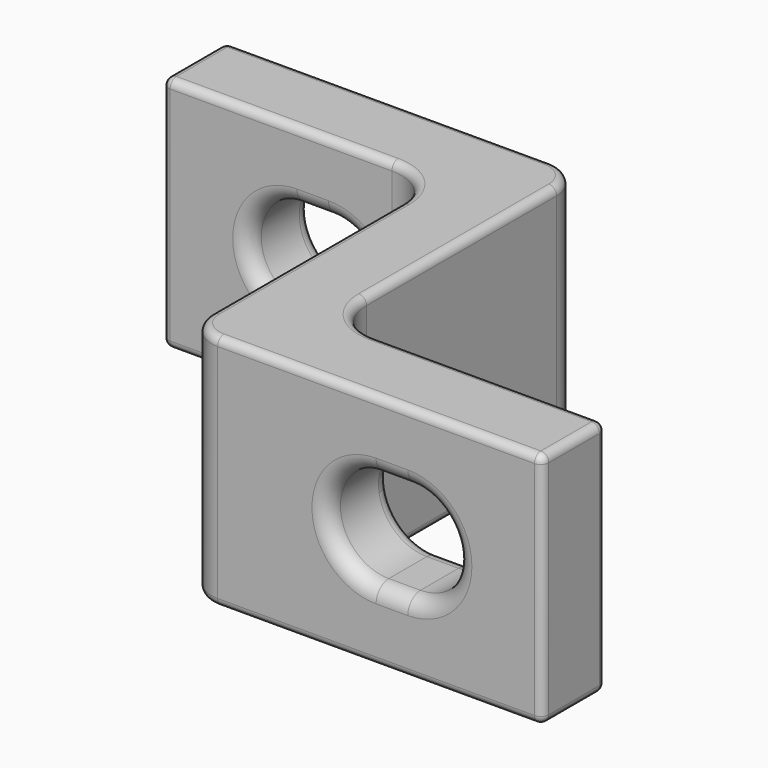
from build123d import *

# Parameters (mm, degrees)
F1_DEPTH      = 15
F2_W          = 2
F2_H          = 6.1
F3_DEPTH      = 20.001
F3_DEPTH_BACK = 5.001
F4_R          = 3
F5_R          = 3
F6_R          = 2
F7_R          = 2
F8_R          = 1
F9_R          = 1
F10_R         = 1
F11_R         = 1
F12_R         = 0.5
F13_R         = 0.5
F14_R         = 0.5
F15_R         = 0.5


with BuildPart() as f1:
    # F0 (on Top) → F1 (new body)
    with BuildSketch(Plane.XY):
        Polygon((22.5, 0), (0, 0), (0, -5), (17.5, -5), (17.5, -25), (40, -25), (40, -20), (22.5, -20), align=None)
    extrude(amount=F1_DEPTH)

    # F2 (on face) → F3 (cut, two sides)
    with BuildSketch(Plane(origin=(0, -20, 0), x_dir=(-1, 0, 0), z_dir=(0, 1, 0))) as f3_sk:
        with Locations((-30.5, 7.5)):
            Rectangle(F2_W, F2_H)
        with BuildLine():
            ThreePointArc((-29.5, 4.45), (-26.45, 7.5), (-29.5, 10.55))
            Line((-29.5, 10.55), (-29.5, 4.45))
        make_face()
        with BuildLine():
            Line((-31.5, 4.45), (-31.5, 10.55))
            ThreePointArc((-31.5, 10.55), (-34.55, 7.5), (-31.5, 4.45))
        make_face()
        with BuildLine():
            ThreePointArc((-10.5, 10.55), (-13.55, 7.5), (-10.5, 4.45))
            Line((-10.5, 4.45), (-10.5, 10.55))
        make_face()
        with Locations((-9.5, 7.5)):
            Rectangle(F2_W, F2_H)
        with BuildLine():
            Line((-8.5, 10.55), (-8.5, 4.45))
            ThreePointArc((-8.5, 4.45), (-5.45, 7.5), (-8.5, 10.55))
        make_face()
    extrude(amount=F3_DEPTH, mode=Mode.SUBTRACT)
    extrude(f3_sk.sketch, amount=-F3_DEPTH_BACK, mode=Mode.SUBTRACT)

    # F4
    f4_edges = [f1.edges().sort_by_distance(p)[0] for p in [
        (22.5, -20, 7.5),
    ]]
    fillet(f4_edges, radius=F4_R)

    # F5
    f5_edges = [f1.edges().sort_by_distance(p)[0] for p in [
        (17.5, -5, 7.5),
    ]]
    fillet(f5_edges, radius=F5_R)

    # F6
    f6_edges = [f1.edges().sort_by_distance(p)[0] for p in [
        (22.5, 0, 7.5),
    ]]
    fillet(f6_edges, radius=F6_R)

    # F7
    f7_edges = [f1.edges().sort_by_distance(p)[0] for p in [
        (17.5, -25, 7.5),
    ]]
    fillet(f7_edges, radius=F7_R)

    # F8
    f8_edges = [f1.edges().sort_by_distance(p)[0] for p in [
        (5.45, 0, 7.5),
    ]]
    fillet(f8_edges, radius=F8_R)

    # F9
    f9_edges = [f1.edges().sort_by_distance(p)[0] for p in [
        (34.55, -20, 7.5),
    ]]
    fillet(f9_edges, radius=F9_R)

    # F10
    f10_edges = [f1.edges().sort_by_distance(p)[0] for p in [
        (5.45, -5, 7.5),
    ]]
    fillet(f10_edges, radius=F10_R)

    # F11
    f11_edges = [f1.edges().sort_by_distance(p)[0] for p in [
        (26.45, -25, 7.5),
    ]]
    fillet(f11_edges, radius=F11_R)

    # F12
    f12_edges = [f1.edges().sort_by_distance(p)[0] for p in [
        (10.25, 0, 15),
    ]]
    fillet(f12_edges, radius=F12_R)

    # F13
    f13_edges = [f1.edges().sort_by_distance(p)[0] for p in [
        (17.5, -15.5, 15),
    ]]
    fillet(f13_edges, radius=F13_R)

    # F14
    f14_edges = [f1.edges().sort_by_distance(p)[0] for p in [
        (10.25, 0, 0),
    ]]
    fillet(f14_edges, radius=F14_R)

    # F15
    f15_edges = [f1.edges().sort_by_distance(p)[0] for p in [
        (17.5, -15.5, 0),
        (0, 0, 7.5),
        (40, -20, 7.5),
    ]]
    fillet(f15_edges, radius=F15_R)


solid = f1.part
